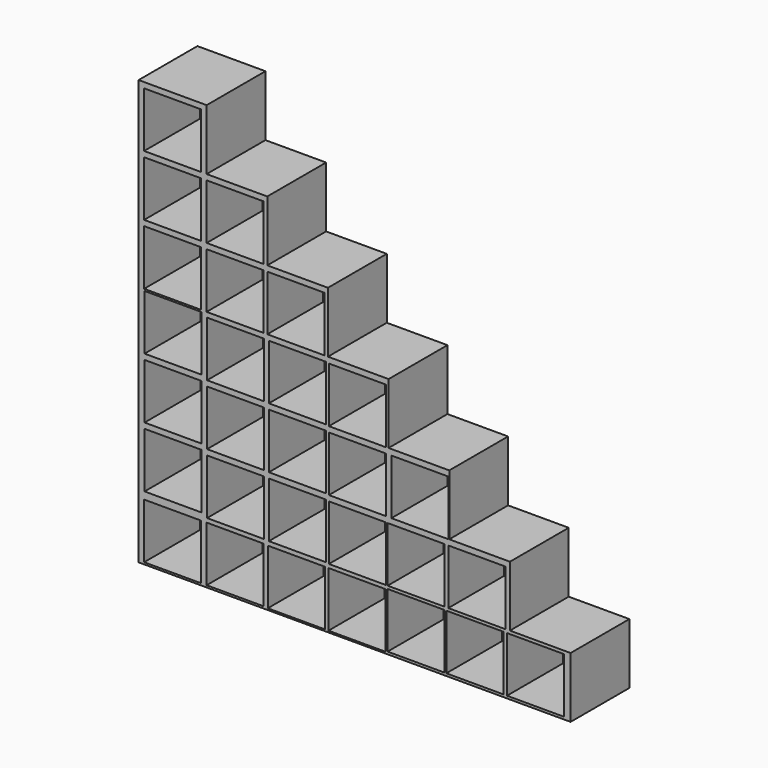
from build123d import *

# Parameters (mm, degrees)
F1_DEPTH = 400
F2_W     = 310
F2_H     = 300
F3_DEPTH = 380


with BuildPart() as f1:
    # F0 (on Front) → F1 (new body)
    with BuildSketch(Plane.XZ):
        Polygon((0, 2310), (0, 0), (2350, 0), (2350, 330), (2020, 330), (2020, 660), (1690, 660), (1690, 990), (1360, 990), (1360, 1320), (1030, 1320), (1030, 1650), (700, 1650), (700, 1980), (370, 1980), (370, 2310), align=None)
    extrude(amount=F1_DEPTH)

    # F2 (on face) → F3 (cut)
    with BuildSketch(Plane.XZ.offset(400)):
        with Locations((185, 2130)):
            Rectangle(F2_W, F2_H)
        with Locations((185, 1800)):
            Rectangle(F2_W, F2_H)
        with Locations((525, 1800)):
            Rectangle(F2_W, F2_H)
        with Locations((185, 1470)):
            Rectangle(F2_W, F2_H)
        with Locations((525, 1470)):
            Rectangle(F2_W, F2_H)
        with Locations((855, 1470)):
            Rectangle(F2_W, F2_H)
        with Locations((1190.171862, 1138.869377)):
            Rectangle(F2_W, F2_H)
        with Locations((1190.171862, 808.869377)):
            Rectangle(F2_W, F2_H)
        with Locations((1530.171862, 808.869377)):
            Rectangle(F2_W, F2_H)
        with Locations((1190.171862, 478.869377)):
            Rectangle(F2_W, F2_H)
        with Locations((1509.71662, 478.869377)):
            Rectangle(F2_W, F2_H)
        with Locations((1839.71662, 478.869377)):
            Rectangle(F2_W, F2_H)
        with Locations((1509.539871, 163.122852)):
            Rectangle(F2_W, F2_H)
        with Locations((1829.08463, 163.122852)):
            Rectangle(F2_W, F2_H)
        with Locations((2159.08463, 163.122852)):
            Rectangle(F2_W, F2_H)
        with Locations((525, 160.843834)):
            Rectangle(F2_W, F2_H)
        with Locations((857.768586, 158.714935)):
            Rectangle(F2_W, F2_H)
        with Locations((1187.768586, 158.714935)):
            Rectangle(F2_W, F2_H)
        with Locations((185, 160.501046)):
            Rectangle(F2_W, F2_H)
        with Locations((187.403275, 1160.154443)):
            Rectangle(F2_W, F2_H)
        with Locations((187.403275, 830.154443)):
            Rectangle(F2_W, F2_H)
        with Locations((187.403275, 500.154443)):
            Rectangle(F2_W, F2_H)
        with Locations((527.403276, 1143.277281)):
            Rectangle(F2_W, F2_H)
        with Locations((527.403276, 813.277281)):
            Rectangle(F2_W, F2_H)
        with Locations((527.403276, 483.277281)):
            Rectangle(F2_W, F2_H)
        with Locations((863.598442, 1142.060464)):
            Rectangle(F2_W, F2_H)
        with Locations((863.598442, 812.060464)):
            Rectangle(F2_W, F2_H)
        with Locations((863.598442, 482.060464)):
            Rectangle(F2_W, F2_H)
    extrude(amount=-F3_DEPTH, mode=Mode.SUBTRACT)


solid = f1.part
